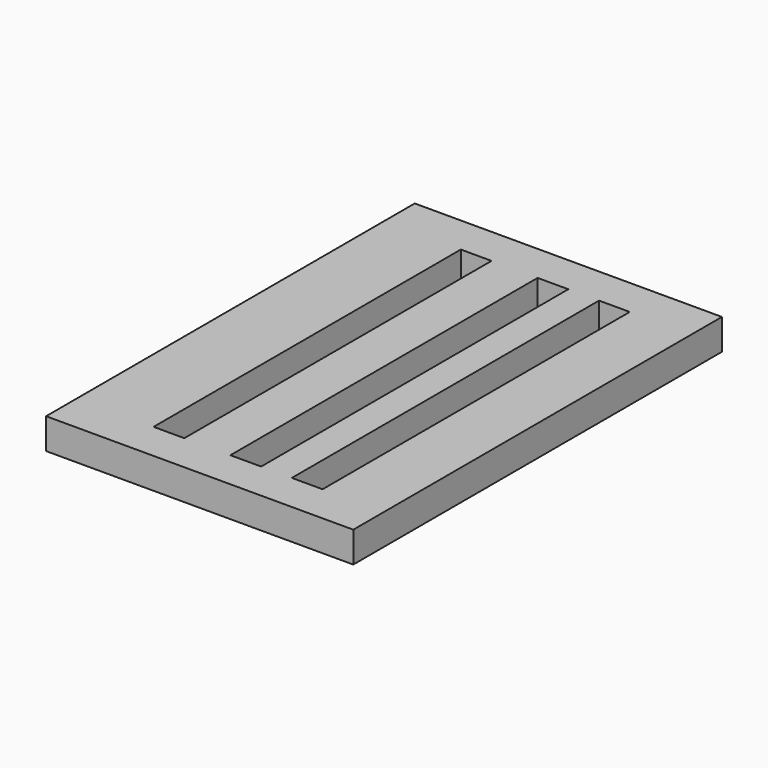
from build123d import *

# Parameters (mm, degrees)
F0_W     = 2
F0_H     = 25
F1_DEPTH = 2


with BuildPart() as f1:
    # F0 (on Top) → F1 (new body)
    with BuildSketch(Plane.XY):
        Polygon((-6.35838, 15.176226), (-26.35838, 15.176226), (-26.35838, -12.323774), (-26.35838, -14.823774), (-6.35838, -14.823774), align=None)
        with Locations((-20.35838, 0.176226)):
            Rectangle(F0_W, F0_H, mode=Mode.SUBTRACT)
        with Locations((-15.35838, 0.176226)):
            Rectangle(F0_W, F0_H, mode=Mode.SUBTRACT)
        with Locations((-11.35838, 0.176226)):
            Rectangle(F0_W, F0_H, mode=Mode.SUBTRACT)
    extrude(amount=F1_DEPTH)


solid = f1.part
